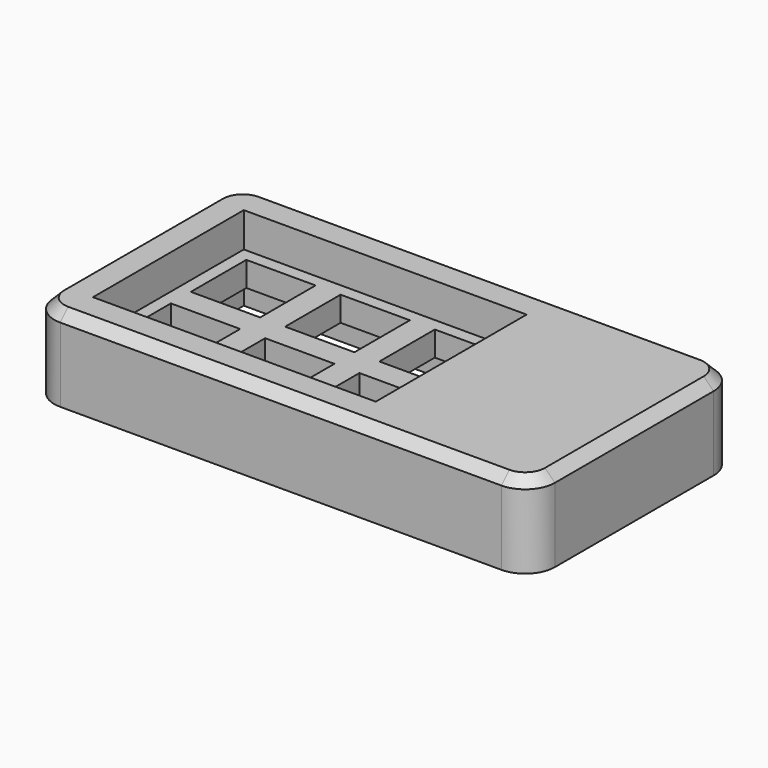
from build123d import *

# Parameters (mm, degrees)
SKETCH011_W       = 57.15
SKETCH011_H       = 38.1
SKETCH011_W_2     = 14
SKETCH011_H_2     = 14
PAD007_DEPTH      = 5
SKETCH012_W       = 101.15
SKETCH012_H       = 52.1
SKETCH012_W_2     = 57.15
SKETCH012_H_2     = 38.1
PAD008_DEPTH      = 12
PAD008_DEPTH_BACK = 5
FILLET001_R       = 6
POCKET005_DEPTH   = 5
SKETCH014_W       = 26
SKETCH014_H       = 35.1
POCKET006_DEPTH   = 5
SKETCH015_W       = 12
SKETCH015_H       = 7
POCKET007_DEPTH   = 7.001
FILLET002_R       = 1
CHAMFER001_SIZE   = 2
SKETCH018_R       = 2
POCKET008_DEPTH   = 6


with BuildPart() as part:
    # Sketch011 → Pad007 (new body)
    with BuildSketch(Plane.XY):
        with Locations((-28.575, 19.05)):
            Rectangle(SKETCH011_W, SKETCH011_H)
        with Locations((-47.625, 28.575)):
            Rectangle(SKETCH011_W_2, SKETCH011_H_2, mode=Mode.SUBTRACT)
        with Locations((-28.575, 28.575)):
            Rectangle(SKETCH011_W_2, SKETCH011_H_2, mode=Mode.SUBTRACT)
        with Locations((-9.525, 28.575)):
            Rectangle(SKETCH011_W_2, SKETCH011_H_2, mode=Mode.SUBTRACT)
        with Locations((-47.625, 9.525)):
            Rectangle(SKETCH011_W_2, SKETCH011_H_2, mode=Mode.SUBTRACT)
        with Locations((-28.575, 9.525)):
            Rectangle(SKETCH011_W_2, SKETCH011_H_2, mode=Mode.SUBTRACT)
        with Locations((-9.525, 9.525)):
            Rectangle(SKETCH011_W_2, SKETCH011_H_2, mode=Mode.SUBTRACT)
    extrude(amount=PAD007_DEPTH)

    # Sketch012 → Pad008 (join, two sides)
    with BuildSketch(Plane.XY) as pad008_sk:
        with Locations((-13.575, 19.05)):
            Rectangle(SKETCH012_W, SKETCH012_H)
        with Locations((-28.575, 19.05)):
            Rectangle(SKETCH012_W_2, SKETCH012_H_2, mode=Mode.SUBTRACT)
    extrude(amount=PAD008_DEPTH)
    extrude(pad008_sk.sketch, amount=-PAD008_DEPTH_BACK)

    # Fillet001
    fillet001_edges = [part.edges().sort_by_distance(p)[0] for p in [
        (37, -7, 3.5),
        (37, 45.1, 3.5),
        (-64.15, -7, 3.5),
        (-64.15, 45.1, 3.5),
    ]]
    fillet(fillet001_edges, radius=FILLET001_R)

    # Sketch013 (on Face2 of Fillet001) → Pocket005 (cut)
    with BuildSketch(Plane(origin=(0, 0, -5), x_dir=(1, 0, 0), z_dir=(0, 0, -1))):
        Polygon((5, -8), (-2.525, -8), (-2.525, -30.1), (5, -30.1), (5, -38.1), (31, -38.1), (31, -3), (5, -3), align=None)
    extrude(amount=-POCKET005_DEPTH, mode=Mode.SUBTRACT)

    # Sketch014 (on Face28 of Pocket005) → Pocket006 (cut)
    with BuildSketch(Plane(origin=(0, 0, 0), x_dir=(1, 0, 0), z_dir=(0, 0, -1))):
        with Locations((18, -20.55)):
            Rectangle(SKETCH014_W, SKETCH014_H)
    extrude(amount=-POCKET006_DEPTH, mode=Mode.SUBTRACT)

    # Sketch015 (on Face16 of Pocket006) → Pocket007 (cut, through all)
    with BuildSketch(Plane.XZ.offset(-38.1)):
        with Locations((18.5, -1.5)):
            Rectangle(SKETCH015_W, SKETCH015_H)
    extrude(amount=-POCKET007_DEPTH, mode=Mode.SUBTRACT)

    # Fillet002
    fillet002_edges = [part.edges().sort_by_distance(p)[0] for p in [
        (24.5, 41.6, 2),
        (12.5, 41.6, 2),
    ]]
    fillet(fillet002_edges, radius=FILLET002_R)

    # Chamfer001
    chamfer001_edges = [part.edges().sort_by_distance(p)[0] for p in [
        (-13.575, -7, 12),
    ]]
    chamfer(chamfer001_edges, length=CHAMFER001_SIZE)

    # Sketch018 (on Face4 of Chamfer001) → Pocket008 (cut)
    with BuildSketch(Plane(origin=(0, 0, -5), x_dir=(1, 0, 0), z_dir=(0, 0, -1))):
        with Locations((-59.564214, 2.414214)):
            Circle(SKETCH018_R)
        with Locations((32.414214, 2.414214)):
            Circle(SKETCH018_R)
        with Locations((32.414214, -40.514214)):
            Circle(SKETCH018_R)
        with Locations((-59.564214, -40.514214)):
            Circle(SKETCH018_R)
    extrude(amount=-POCKET008_DEPTH, mode=Mode.SUBTRACT)


solid = part.part
